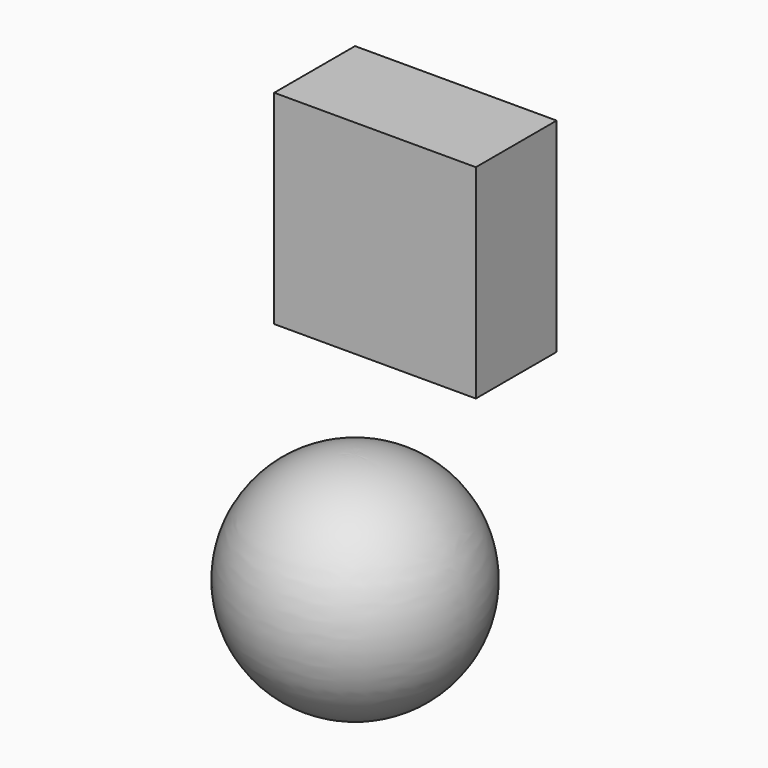
from build123d import *

# Parameters (mm, degrees)
F0_W     = 39.928734
F0_H     = 40.331587
F1_DEPTH = 20


with BuildPart() as f1:
    # F0 (on Front) → F1 (new body)
    with BuildSketch(Plane.XZ):
        with Locations((19.964367, 20.165793)):
            Rectangle(F0_W, F0_H)
    extrude(amount=F1_DEPTH)


with BuildPart() as f3:
    # F2 (on Front) → F3 (revolve)
    with BuildSketch(Plane.XZ):
        with BuildLine():
            ThreePointArc((0, -74.523628), (22.215341, -52.689843), (0, -30.856058))
            Line((0, -30.856058), (0, -74.523628))
        make_face()
    revolve(axis=Axis((0, 0, -52.689843), (0, 0, -1)))


solid = Compound([f1.part, f3.part])
